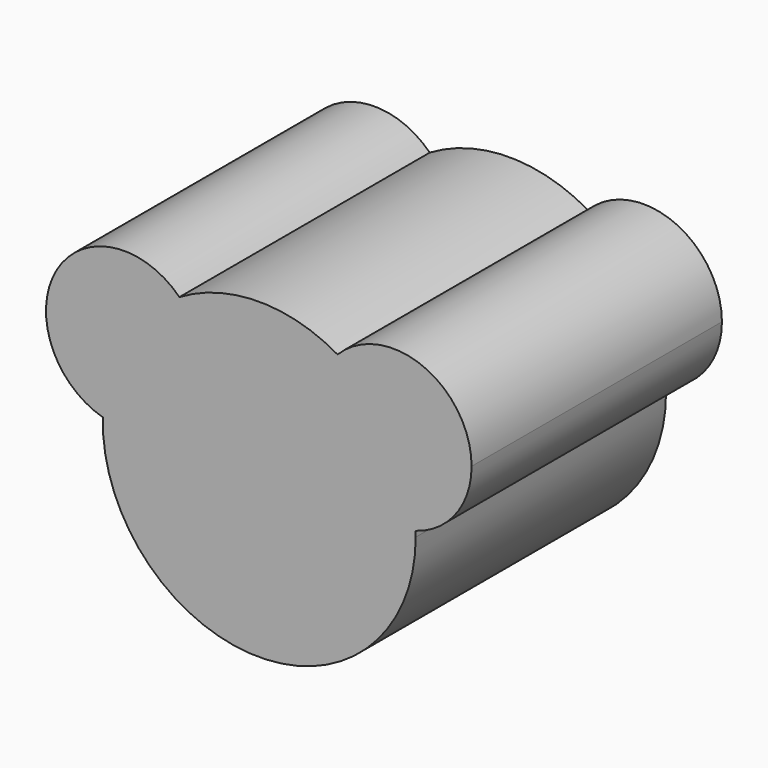
from build123d import *

# Parameters (mm, degrees)
F1_DEPTH = 76.2


with BuildPart() as f1:
    # F0 (on Front) → F1 (new body)
    with BuildSketch(Plane.XZ):
        with BuildLine():
            Line((0, 0), (16.3282829281, 9.8127303346))
            ThreePointArc((16.3282829281, 9.8127303346), (13.7388791973, 21.866806576), (19.0733598326, 32.9820700487))
            ThreePointArc((19.0733598326, 32.9820700487), (-0.2140813256, 38.099398541), (-19.4427976439, 32.7656469458))
            ThreePointArc((-19.4427976439, 32.7656469458), (-15.2854652775, 26.5722258682), (-13.825048557, 19.2572371428))
            ThreePointArc((-13.825048557, 19.2572371428), (-14.4897645301, 14.2688675447), (-16.4375242785, 9.6286185714))
            Line((-16.4375242785, 9.6286185714), (0, 0))
        make_face()
        with BuildLine():
            ThreePointArc((32.6565658563, 19.6254606691), (36.5259490937, 10.8381291192), (38.0756304159, 1.3624861223))
            ThreePointArc((38.0756304159, 1.3624861223), (47.9231253878, 8.2309593606), (51.7065658563, 19.6254606691))
            ThreePointArc((51.7065658563, 19.6254606691), (39.8726044249, 37.2558687011), (19.0733598326, 32.9820700487))
            ThreePointArc((19.0733598326, 32.9820700487), (26.7132187591, 27.1664120474), (32.6565658563, 19.6254606691))
        make_face()
        with BuildLine():
            ThreePointArc((16.3282829281, 9.8127303346), (25.7569703489, 1.8688258011), (38.0756304159, 1.3624861223))
            ThreePointArc((38.0756304159, 1.3624861223), (36.5259490937, 10.8381291192), (32.6565658563, 19.6254606691))
            Line((32.6565658563, 19.6254606691), (16.3282829281, 9.8127303346))
        make_face()
        with BuildLine():
            Line((16.3282829281, 9.8127303346), (32.6565658563, 19.6254606691))
            ThreePointArc((32.6565658563, 19.6254606691), (26.7132187591, 27.1664120474), (19.0733598326, 32.9820700487))
            ThreePointArc((19.0733598326, 32.9820700487), (13.7388791973, 21.866806576), (16.3282829281, 9.8127303346))
        make_face()
        with BuildLine():
            ThreePointArc((-38.0885373309, 0.934518054), (-0.4672941756, -38.0971342249), (38.1, 0))
            ThreePointArc((38.1, 0), (38.0939071168, 0.6813520217), (38.0756304159, 1.3624861223))
            ThreePointArc((38.0756304159, 1.3624861223), (25.7569703489, 1.8688258011), (16.3282829281, 9.8127303346))
            Line((16.3282829281, 9.8127303346), (0, 0))
            Line((0, 0), (-16.4375242785, 9.6286185714))
            ThreePointArc((-16.4375242785, 9.6286185714), (-25.7763452104, 1.5792590119), (-38.0885373309, 0.934518054))
        make_face()
        with BuildLine():
            ThreePointArc((-19.4427976439, 32.7656469458), (-49.3125728356, 28.8858557141), (-38.0885373309, 0.934518054))
            ThreePointArc((-38.0885373309, 0.934518054), (-36.6454381775, 10.4269775477), (-32.875048557, 19.2572371428))
            ThreePointArc((-32.875048557, 19.2572371428), (-27.0168196061, 26.8645018262), (-19.4427976439, 32.7656469458))
        make_face()
        with BuildLine():
            ThreePointArc((-32.875048557, 19.2572371428), (-36.6454381775, 10.4269775477), (-38.0885373309, 0.934518054))
            ThreePointArc((-38.0885373309, 0.934518054), (-25.7763452104, 1.5792590119), (-16.4375242785, 9.6286185714))
            Line((-16.4375242785, 9.6286185714), (-32.875048557, 19.2572371428))
        make_face()
        with BuildLine():
            ThreePointArc((-19.4427976439, 32.7656469458), (-27.0168196061, 26.8645018262), (-32.875048557, 19.2572371428))
            Line((-32.875048557, 19.2572371428), (-16.4375242785, 9.6286185714))
            ThreePointArc((-16.4375242785, 9.6286185714), (-14.4897645301, 14.2688675447), (-13.825048557, 19.2572371428))
            ThreePointArc((-13.825048557, 19.2572371428), (-15.2854652775, 26.5722258682), (-19.4427976439, 32.7656469458))
        make_face()
    extrude(amount=F1_DEPTH)


solid = f1.part
